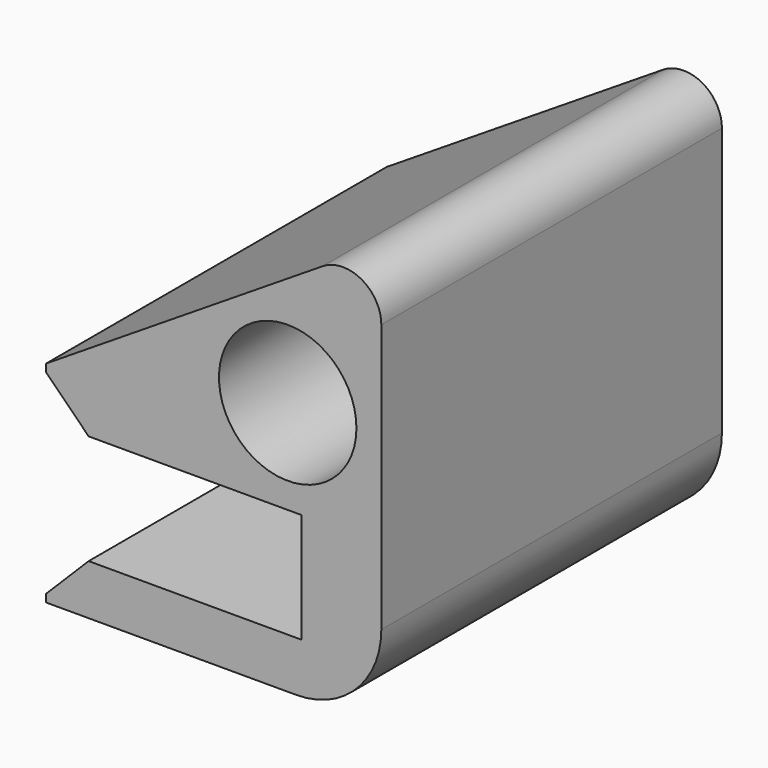
from build123d import *

# Parameters (mm, degrees)
F1_DEPTH      = 25.4
F2_DEPTH      = 25.4
F3_R          = 5.08
F4_R          = 2.286
F5_SIZE       = 2.54
F6_R          = 4.0996644409
F7_DEPTH      = 25.4
F7_DEPTH_BACK = 254


with BuildPart() as f1:
    # F0 (on Front) → F1 (new body)
    with BuildSketch(Plane.XZ):
        Polygon((-15.24, 0), (0, 0), (0, -6.55), (-15.24, -6.55), (-15.24, -9.55), (4.76, -9.55), (4.76, 3), (-15.24, 3), align=None)
    extrude(amount=F1_DEPTH)

    # F0 (on Front) → F2 (join)
    with BuildSketch(Plane.XZ):
        Polygon((4.76, 15.7), (-15.24, 3), (4.76, 3), align=None)
    extrude(amount=F2_DEPTH)

    # F3
    f3_edges = [f1.edges().sort_by_distance(p)[0] for p in [
        (4.76, -12.7, -9.55),
    ]]
    fillet(f3_edges, radius=F3_R)

    # F4
    f4_edges = [f1.edges().sort_by_distance(p)[0] for p in [
        (4.76, -12.7, 15.7),
    ]]
    fillet(f4_edges, radius=F4_R)

    # F5
    f5_edges = [f1.edges().sort_by_distance(p)[0] for p in [
        (-15.24, -12.7, 0),
        (-15.24, -12.7, -6.55),
    ]]
    chamfer(f5_edges, length=F5_SIZE)

    # F6 (on Front) → F7 (cut, two sides)
    with BuildSketch(Plane.XZ) as f7_sk:
        with Locations((-0.8245132631, 5.626801867)):
            Circle(F6_R)
    extrude(amount=-F7_DEPTH, mode=Mode.SUBTRACT)
    extrude(f7_sk.sketch, amount=F7_DEPTH_BACK, mode=Mode.SUBTRACT)


solid = f1.part
